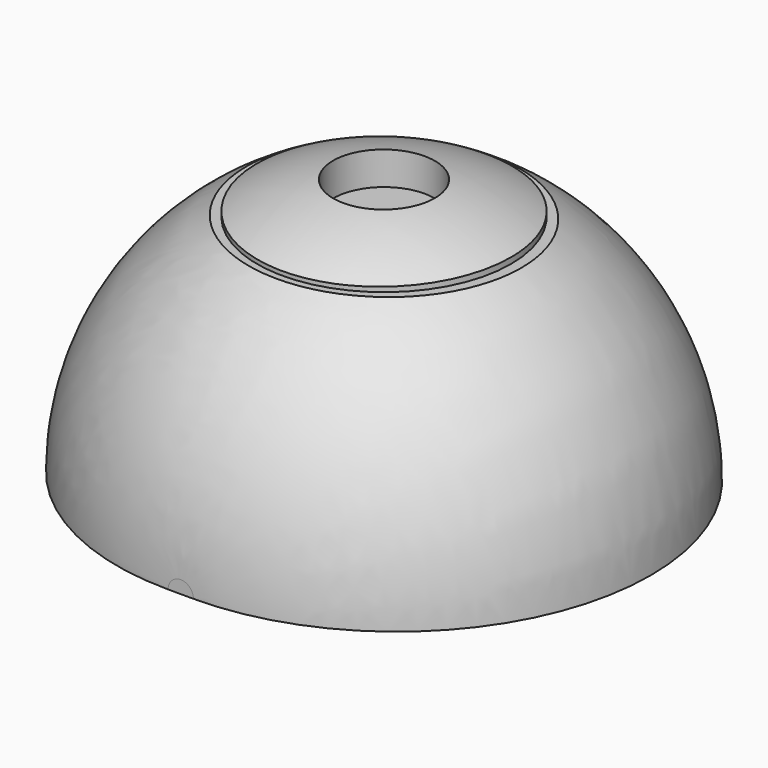
from build123d import *

# Parameters (mm, degrees)
F1_ANGLE = 180
F3_R     = 5.5
F3_R_2   = 5
F4_DEPTH = 16
F5_R     = 2
F6_DEPTH = 5


with BuildPart() as f1:
    # F0 (on Top) → F1 (revolve)
    with BuildSketch(Plane.XY):
        with BuildLine():
            Line((0, 8.77414), (0, 8.586648))
            Line((0, 8.586648), (0, -11.213352))
            Line((0, -11.213352), (0, -11.22586))
            Line((0, -11.22586), (0.5, -11.22586))
            ThreePointArc((0.5, -11.22586), (10.5, -1.22586), (0.5, 8.77414))
            Line((0.5, 8.77414), (0, 8.77414))
        make_face()
    revolve(axis=Axis((0, -1.313352, 0), (0, -1, 0)), revolution_arc=F1_ANGLE)

    # F3 (on offset) → F4 (cut)
    with BuildSketch(Plane.XY.offset(25)):
        with Locations((0, -1.22586)):
            Circle(F3_R)
        with Locations((0, -1.22586)):
            Circle(F3_R_2, mode=Mode.SUBTRACT)
    extrude(amount=-F4_DEPTH, mode=Mode.SUBTRACT)

    # F5 (on face) → F6 (cut)
    with BuildSketch(Plane.XY.offset(9)):
        with Locations((0, -1.22586)):
            Circle(F5_R)
    extrude(amount=F6_DEPTH, mode=Mode.SUBTRACT)


solid = f1.part
